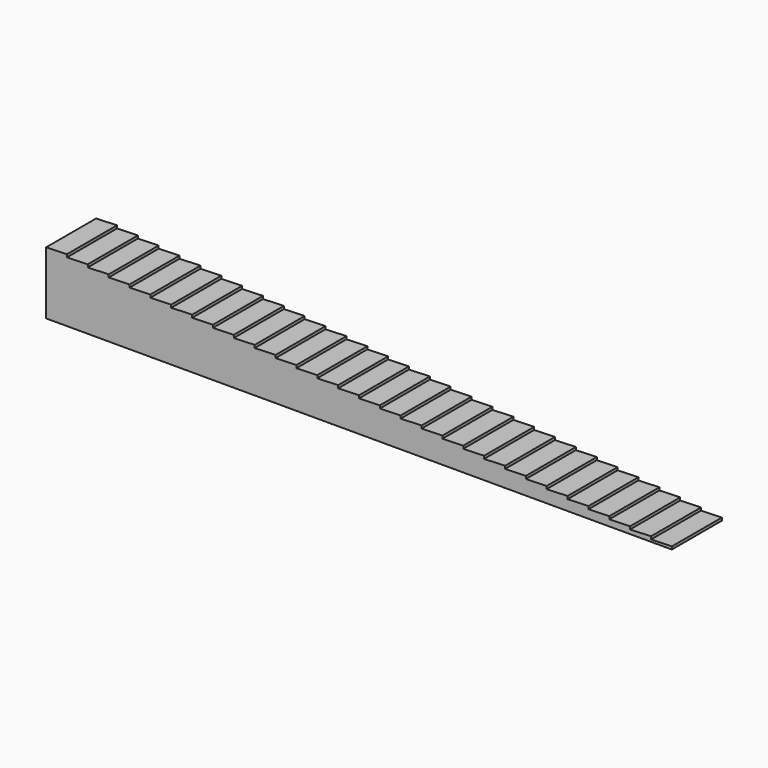
from build123d import *

# Parameters (mm, degrees)
F2_DEPTH = 10


with BuildPart() as f2:
    # F1 (on Front) → F2 (new body)
    with BuildSketch(Plane.XZ):
        Polygon((3.3333333333, 10.116402565), (0, 10), (0, 0), (100, 0), (100, 0.4497358983), (96.6666666667, 0.3333333333), (96.6666666667, 0.7830692316), (93.3333333333, 0.6666666667), (93.3333333333, 1.116402565), (90, 1), (90, 1.4497358983), (86.6666666667, 1.3333333333), (86.6666666667, 1.7830692316), (83.3333333333, 1.6666666667), (83.3333333333, 2.116402565), (80, 2), (80, 2.4497358983), (76.6666666667, 2.3333333333), (76.6666666667, 2.7830692316), (73.3333333333, 2.6666666667), (73.3333333333, 3.116402565), (70, 3), (70, 3.4497358983), (66.6666666667, 3.3333333333), (66.6666666667, 3.7830692316), (63.3333333333, 3.6666666667), (63.3333333333, 4.116402565), (60, 4), (60, 4.4497358983), (56.6666666667, 4.3333333333), (56.6666666667, 4.7830692316), (53.3333333333, 4.6666666667), (53.3333333333, 5.116402565), (50, 5), (50, 5.4497358983), (46.6666666667, 5.3333333333), (46.6666666667, 5.7830692316), (43.3333333333, 5.6666666667), (43.3333333333, 6.116402565), (40, 6), (40, 6.4497358983), (36.6666666667, 6.3333333333), (36.6666666667, 6.7830692316), (33.3333333333, 6.6666666667), (33.3333333333, 7.116402565), (30, 7), (30, 7.4497358983), (26.6666666667, 7.3333333333), (26.6666666667, 7.7830692316), (23.3333333333, 7.6666666667), (23.3333333333, 8.116402565), (20, 8), (20, 8.4497358983), (16.6666666667, 8.3333333333), (16.6666666667, 8.7830692316), (13.3333333333, 8.6666666667), (13.3333333333, 9.116402565), (10, 9), (10, 9.4497358983), (6.6666666667, 9.3333333333), (6.6666666667, 9.7830692316), (3.3333333333, 9.6666666667), align=None)
    extrude(amount=F2_DEPTH)


solid = f2.part
